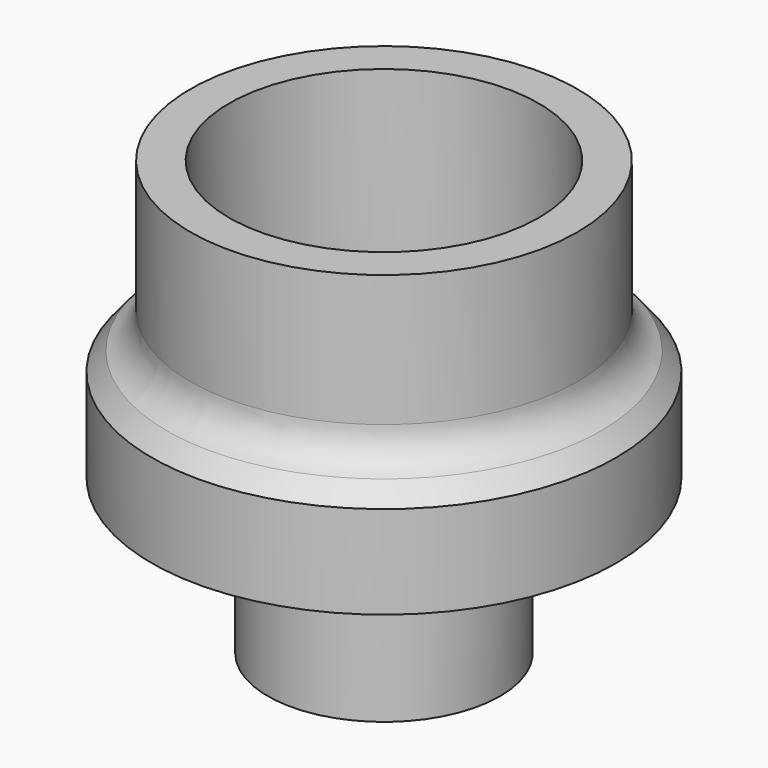
from build123d import *

# Parameters (mm, degrees)
CHAMFER_SIZE = 1


with BuildPart() as part:
    # Sketch → Revolution (revolve)
    with BuildSketch(Plane.XZ):
        with BuildLine():
            Line((3, 0), (3, 17))
            Line((3, 17), (10, 17))
            Line((10, 17), (10, 28))
            Line((10, 28), (12.5, 28))
            Line((12.5, 28), (12.5, 19.5))
            ThreePointArc((12.5, 19.5), (13.232233, 17.732233), (15, 17))
            Line((15, 10), (15, 17))
            Line((7.5, 10), (15, 10))
            Line((7.5, 0), (7.5, 10))
            Line((3, 0), (7.5, 0))
        make_face()
    revolve(axis=Axis((0, 0, 0), (0, 0, 1)))

    # Chamfer
    chamfer_edges = [part.edges().sort_by_distance(p)[0] for p in [
        (-15, 0, 17),
        (-3, 0, 0),
        (-3, 0, 17),
    ]]
    chamfer(chamfer_edges, length=CHAMFER_SIZE)


solid = part.part
